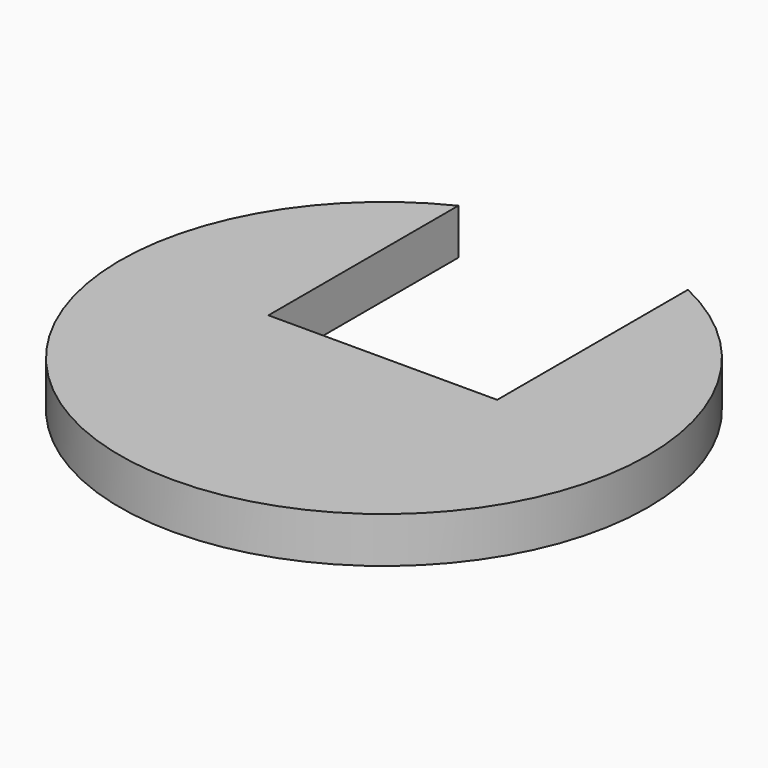
from build123d import *

# Parameters (mm, degrees)
F0_R     = 7.5
F1_DEPTH = 1.3
F3_DEPTH = 10


with BuildPart() as f1:
    # F0 (on Top) → F1 (new body)
    with BuildSketch(Plane.XY):
        Circle(F0_R)
    extrude(amount=F1_DEPTH)

    # F2 (on face) → F3 (cut)
    with BuildSketch(Plane.XY.offset(1.3)):
        Polygon((-0.281864, 0), (0, 0), (3.218136, 0), (3.218136, 9.915092), (2.818136, 9.068452), (-3.281864, 8.696281), (-3.281864, 0), align=None)
    extrude(amount=-F3_DEPTH, mode=Mode.SUBTRACT)


solid = f1.part
